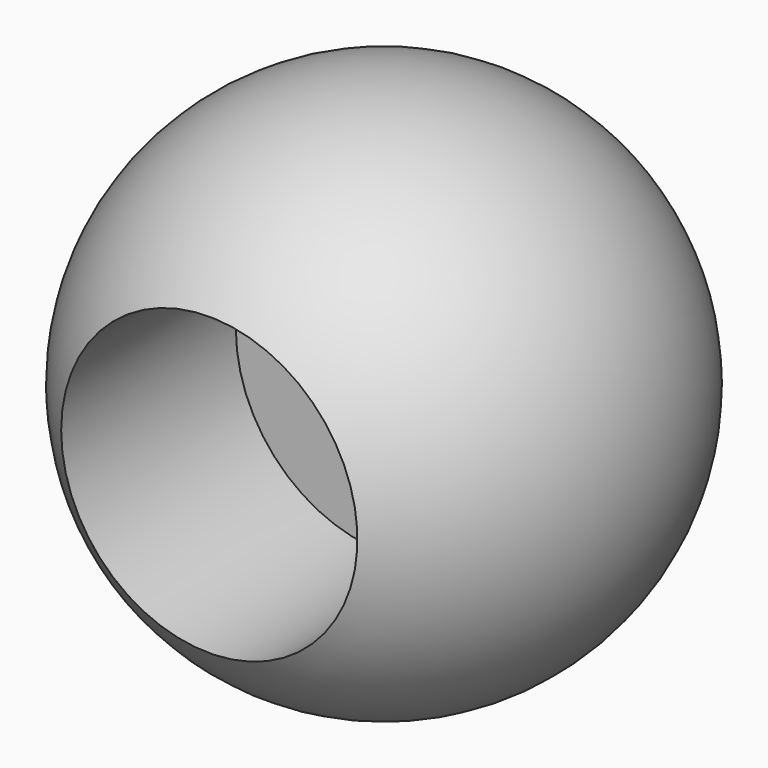
from build123d import *


with BuildPart() as f1:
    # F0 (on Top) → F1 (revolve)
    with BuildSketch(Plane.XY):
        with BuildLine():
            ThreePointArc((-6.308156, 17.975252), (-18.891116, 2.455249), (-10.6934, -15.765586))
            Line((-10.6934, -15.765586), (-10.6934, 0))
            Line((-10.6934, 0), (0, 0))
            Line((0, 0), (0, 17.975252))
            Line((0, 17.975252), (-6.308156, 17.975252))
        make_face()
    revolve(axis=Axis((0, 0, 0), (0, 1, 0)))


solid = f1.part
